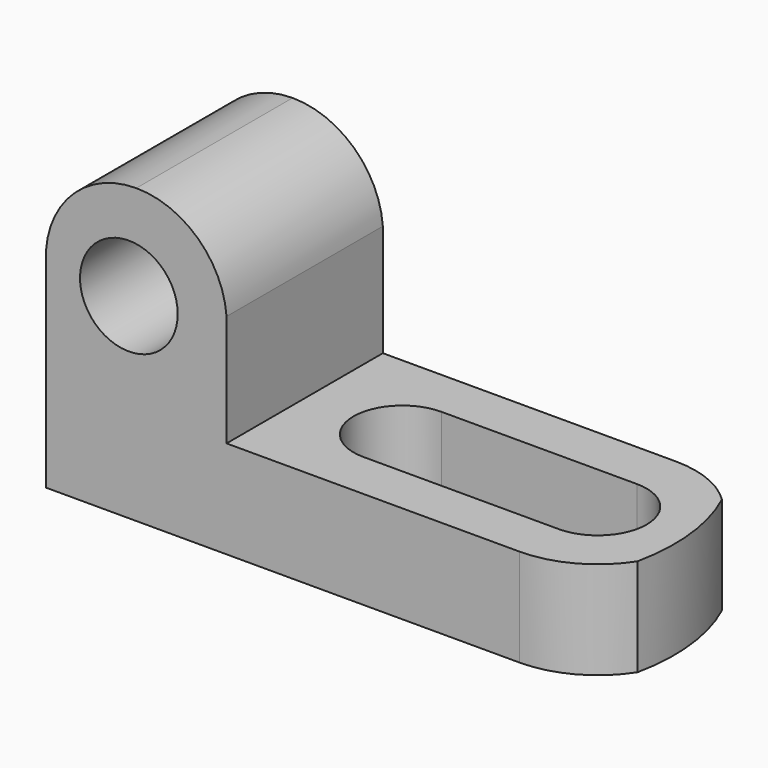
from build123d import *

# Parameters (mm, degrees)
F1_DEPTH = 25.4
F2_R     = 6.35
F3_DEPTH = 25.4
F5_DEPTH = 25.4
F7_DEPTH = 25.4


with BuildPart() as f1:
    # F0 (on Front) → F1 (new body)
    with BuildSketch(Plane.XZ):
        Polygon((0, 38.1), (0, 0), (76.2, 0), (76.2, 12.7), (23.4621260909, 12.7), (23.4621260909, 38.1), align=None)
    extrude(amount=F1_DEPTH)

    # F2 (on face) → F3 (cut)
    with BuildSketch(Plane.XZ.offset(25.4)):
        with BuildLine():
            ThreePointArc((11.7310630454, 38.1), (19.7267698627, 34.9655343316), (23.4621260909, 27.2322739337))
            Line((23.4621260909, 27.2322739337), (23.4621260909, 38.1))
            Line((23.4621260909, 38.1), (11.7310630454, 38.1))
        make_face()
        with BuildLine():
            ThreePointArc((0, 27.2322739337), (3.7353562282, 34.9655343316), (11.7310630454, 38.1))
            Line((11.7310630454, 38.1), (0, 38.1))
            Line((0, 38.1), (0, 27.2322739337))
        make_face()
        with Locations((10.7621260909, 25.4370161029)):
            Circle(F2_R)
    extrude(amount=-F3_DEPTH, mode=Mode.SUBTRACT)

    # F4 (on face) → F5 (cut)
    with BuildSketch(Plane.XY.offset(12.7)):
        with BuildLine():
            ThreePointArc((67.9121260909, -12.7), (66.0522541514, -8.2098719395), (61.5621260909, -6.35))
            Line((61.5621260909, -6.35), (61.5621260909, -19.05))
            ThreePointArc((61.5621260909, -19.05), (66.0522541514, -17.1901280605), (67.9121260909, -12.7))
        make_face()
        with BuildLine():
            ThreePointArc((42.5121260909, -12.7), (40.6522541514, -8.2098719395), (36.1621260909, -6.35))
            Line((36.1621260909, -6.35), (36.1621260909, -19.05))
            ThreePointArc((36.1621260909, -19.05), (40.6522541514, -17.1901280605), (42.5121260909, -12.7))
        make_face()
        with BuildLine():
            Line((61.5621260909, -19.05), (61.5621260909, -6.35))
            ThreePointArc((61.5621260909, -6.35), (55.2121260909, -12.7), (61.5621260909, -19.05))
        make_face()
        with BuildLine():
            Line((61.5621260909, -6.35), (36.1621260909, -6.35))
            ThreePointArc((36.1621260909, -6.35), (40.6522541514, -8.2098719395), (42.5121260909, -12.7))
            ThreePointArc((42.5121260909, -12.7), (40.6522541514, -17.1901280605), (36.1621260909, -19.05))
            Line((36.1621260909, -19.05), (61.5621260909, -19.05))
            ThreePointArc((61.5621260909, -19.05), (55.2121260909, -12.7), (61.5621260909, -6.35))
        make_face()
        with BuildLine():
            Line((36.1621260909, -19.05), (36.1621260909, -6.35))
            ThreePointArc((36.1621260909, -6.35), (29.8121260909, -12.7), (36.1621260909, -19.05))
        make_face()
        with BuildLine():
            ThreePointArc((61.5621260909, 0), (74.2621260909, -12.7), (61.5621260909, -25.4))
            Line((61.5621260909, -25.4), (76.2, -25.4))
            Line((76.2, -25.4), (76.2, 0))
            Line((76.2, 0), (61.5621260909, 0))
        make_face()
    extrude(amount=-F5_DEPTH, mode=Mode.SUBTRACT)

    # F6 (on face) → F7 (cut)
    with BuildSketch(Plane.XY.offset(12.7)):
        with BuildLine():
            ThreePointArc((70.4301233526, -3.6088711061), (72.6308384047, -11.4457312958), (72.2394995097, -19.5763141925))
            ThreePointArc((72.2394995097, -19.5763141925), (74.1813649126, -11.2700309235), (70.4301233526, -3.6088711061))
        make_face()
    extrude(amount=-F7_DEPTH, mode=Mode.SUBTRACT)


solid = f1.part
